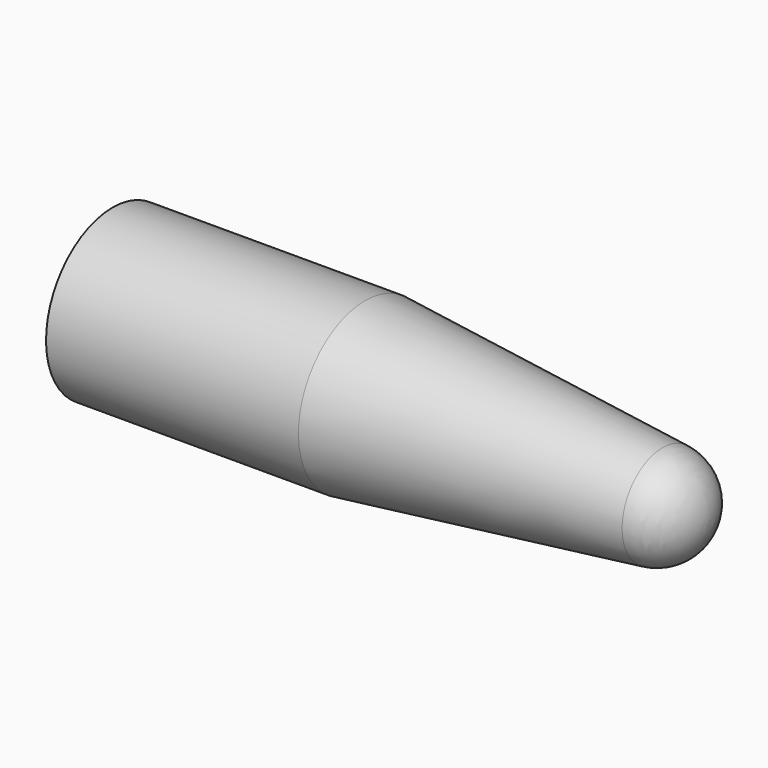
from build123d import *


with BuildPart() as f1:
    # F0 (on Front) → F1 (revolve)
    with BuildSketch(Plane.XZ):
        with BuildLine():
            Line((0, 7), (0, 0))
            Line((0, 0), (34.311476, 0))
            Line((34.311476, 0), (50, 0))
            ThreePointArc((50, 0), (48.923802, 2.852134), (46.214773, 4.25))
            Line((46.214773, 4.25), (21.214773, 7))
            Line((21.214773, 7), (0, 7))
        make_face()
    revolve(axis=Axis((17.155738, 0, 0), (1, 0, 0)))


solid = f1.part
